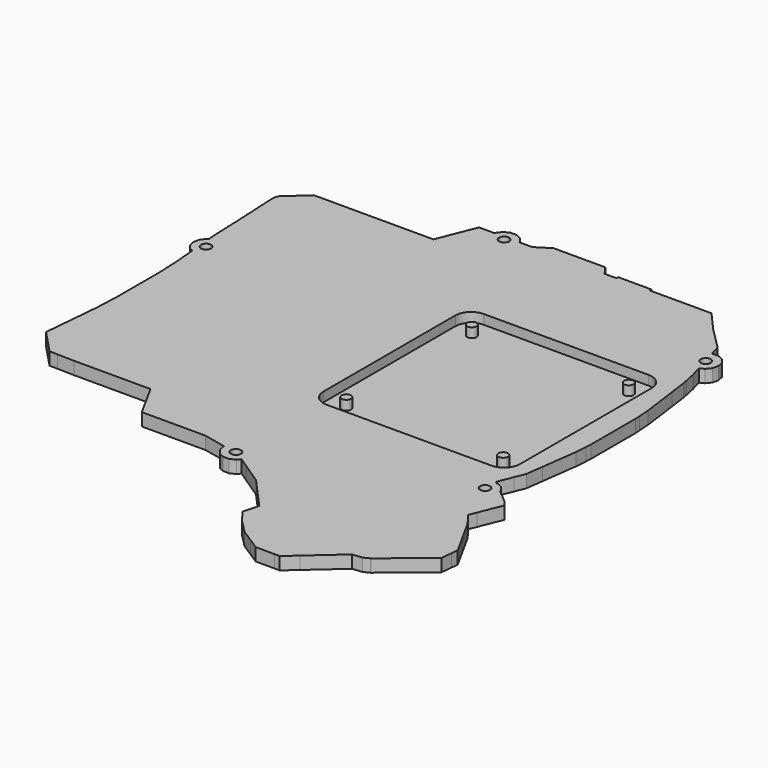
from build123d import *

# Parameters (mm, degrees)
PAD_DEPTH       = 4
SKETCH001_W     = 62
SKETCH001_H     = 62
POCKET_DEPTH    = 3
SKETCH002_R     = 1.5
PAD001_DEPTH    = 3
SKETCH003_R     = 1.5875
POCKET001_DEPTH = 4.001
FILLET_R        = 5


with BuildPart() as part:
    # Sketch → Pad (new body)
    with BuildSketch(Plane.XY):
        with BuildLine():
            add(Edge.make_bspline(
                [(7.110538, 123.355855), (7.531138, 121.513255)],
                knots=[0, 0, 1.889994, 1.889994], degree=1))
            add(Edge.make_bspline(
                [(7.531138, 121.513255), (7.531938, 121.509855)],
                knots=[0, 0, 0.003493, 0.003493], degree=1))
            add(Edge.make_bspline(
                [(7.531938, 121.509855), (7.534138, 121.507055)],
                knots=[0, 0, 0.003561, 0.003561], degree=1))
            add(Edge.make_bspline(
                [(7.534138, 121.507055), (8.712538, 120.029355)],
                knots=[0, 0, 1.890033, 1.890033], degree=1))
            add(Edge.make_bspline(
                [(8.712538, 120.029355), (9.780338, 119.515155)],
                knots=[0, 0, 1.185158, 1.185158], degree=1))
            add(Edge.make_bspline(
                [(9.780338, 119.515155), (10.374038, 112.923715)],
                knots=[0, 0, 6.618124, 6.618124], degree=1))
            add(Edge.make_bspline(
                [(10.374038, 112.923715), (10.634538, 107.230525)],
                knots=[0, 0, 5.699147, 5.699147], degree=1))
            add(Edge.make_bspline(
                [(10.634538, 107.230525), (10.713338, 105.508755)],
                knots=[0, 0, 1.723572, 1.723572], degree=1))
            add(Edge.make_bspline(
                [(10.713338, 105.508755), (10.713338, 88.308755)],
                knots=[0, 0, 17.2, 17.2], degree=1))
            add(Edge.make_bspline(
                [(10.713338, 88.308755), (10.634538, 86.586955)],
                knots=[0, 0, 1.723602, 1.723602], degree=1))
            add(Edge.make_bspline(
                [(10.634538, 86.586955), (10.374038, 80.893755)],
                knots=[0, 0, 5.699157, 5.699157], degree=1))
            add(Edge.make_bspline(
                [(10.374038, 80.893755), (8.864238, 64.131755)],
                knots=[0, 0, 16.829859, 16.829859], degree=1))
            add(Edge.make_bspline(
                [(8.864238, 64.131755), (8.851738, 63.596955)],
                knots=[0, 0, 0.534946, 0.534946], degree=1))
            add(Edge.make_bspline(
                [(8.851738, 63.596955), (8.842238, 63.187555)],
                knots=[0, 0, 0.40951, 0.40951], degree=1))
            add(Edge.make_bspline(
                [(8.842238, 63.187555), (8.840038, 63.093355)],
                knots=[0, 0, 0.094226, 0.094226], degree=1))
            add(Edge.make_bspline(
                [(8.840038, 63.093355), (8.847938, 63.068955)],
                knots=[0, 0, 0.025647, 0.025647], degree=1))
            add(Edge.make_bspline(
                [(8.847938, 63.068955), (8.864238, 63.018755)],
                knots=[0, 0, 0.05278, 0.05278], degree=1))
            add(Edge.make_bspline(
                [(8.864238, 63.018755), (10.908138, 60.863055)],
                knots=[0, 0, 2.970618, 2.970618], degree=1))
            add(Edge.make_bspline(
                [(10.908138, 60.863055), (15.891038, 55.607755)],
                knots=[0, 0, 7.242063, 7.242063], degree=1))
            add(Edge.make_bspline(
                [(15.891038, 55.607755), (15.911038, 55.607255)],
                knots=[0, 0, 0.020006, 0.020006], degree=1))
            add(Edge.make_bspline(
                [(15.911038, 55.607255), (15.991338, 55.605355)],
                knots=[0, 0, 0.080322, 0.080322], degree=1))
            add(Edge.make_bspline(
                [(15.991338, 55.605355), (18.367238, 55.549955)],
                knots=[0, 0, 2.376546, 2.376546], degree=1))
            add(Edge.make_bspline(
                [(18.367238, 55.549955), (23.674038, 55.425955)],
                knots=[0, 0, 5.308249, 5.308249], degree=1))
            add(Edge.make_bspline(
                [(23.674038, 55.425955), (33.191938, 55.425955)],
                knots=[0, 0, 9.5179, 9.5179], degree=1))
            add(Edge.make_bspline(
                [(33.191938, 55.425955), (33.548038, 55.425955)],
                knots=[0, 0, 0.3561, 0.3561], degree=1))
            add(Edge.make_bspline(
                [(33.548038, 55.425955), (33.643538, 55.425955)],
                knots=[0, 0, 0.0955, 0.0955], degree=1))
            add(Edge.make_bspline(
                [(33.643538, 55.425955), (37.838738, 55.425955)],
                knots=[0, 0, 4.1952, 4.1952], degree=1))
            add(Edge.make_bspline(
                [(37.838738, 55.425955), (39.979838, 55.425955)],
                knots=[0, 0, 2.1411, 2.1411], degree=1))
            add(Edge.make_bspline(
                [(39.979838, 55.425955), (40.088438, 55.425955)],
                knots=[0, 0, 0.1086, 0.1086], degree=1))
            add(Edge.make_bspline(
                [(40.088438, 55.425955), (47.880938, 55.425955)],
                knots=[0, 0, 7.7925, 7.7925], degree=1))
            add(Edge.make_bspline(
                [(47.880938, 55.425955), (50.274438, 51.072955)],
                knots=[0, 0, 4.96764, 4.96764], degree=1))
            add(Edge.make_bspline(
                [(50.274438, 51.072955), (53.904838, 44.470155)],
                knots=[0, 0, 7.535036, 7.535036], degree=1))
            add(Edge.make_bspline(
                [(53.904838, 44.470155), (65.142358, 44.470155)],
                knots=[0, 0, 11.23752, 11.23752], degree=1))
            add(Edge.make_bspline(
                [(65.142358, 44.470155), (65.195378, 44.470155)],
                knots=[0, 0, 0.05302, 0.05302], degree=1))
            add(Edge.make_bspline(
                [(65.195378, 44.470155), (73.996138, 44.470155)],
                knots=[0, 0, 8.80076, 8.80076], degree=1))
            add(Edge.make_bspline(
                [(73.996138, 44.470155), (81.180738, 42.906055)],
                knots=[0, 0, 7.352883, 7.352883], degree=1))
            add(Edge.make_bspline(
                [(81.180738, 42.906055), (81.101938, 42.560655)],
                knots=[0, 0, 0.354275, 0.354275], degree=1))
            add(Edge.make_bspline(
                [(81.101938, 42.560655), (81.522538, 40.717955)],
                knots=[0, 0, 1.890092, 1.890092], degree=1))
            add(Edge.make_bspline(
                [(81.522538, 40.717955), (81.523338, 40.714555)],
                knots=[0, 0, 0.003493, 0.003493], degree=1))
            add(Edge.make_bspline(
                [(81.523338, 40.714555), (81.525438, 40.711755)],
                knots=[0, 0, 0.0035, 0.0035], degree=1))
            add(Edge.make_bspline(
                [(81.525438, 40.711755), (82.703938, 39.234055)],
                knots=[0, 0, 1.890095, 1.890095], degree=1))
            add(Edge.make_bspline(
                [(82.703938, 39.234055), (84.406838, 38.413955)],
                knots=[0, 0, 1.890088, 1.890088], degree=1))
            add(Edge.make_bspline(
                [(84.406838, 38.413955), (84.409938, 38.412455)],
                knots=[0, 0, 0.003444, 0.003444], degree=1))
            add(Edge.make_bspline(
                [(84.409938, 38.412455), (86.303538, 38.412455)],
                knots=[0, 0, 1.8936, 1.8936], degree=1))
            add(Edge.make_bspline(
                [(86.303538, 38.412455), (86.306638, 38.413955)],
                knots=[0, 0, 0.003444, 0.003444], degree=1))
            add(Edge.make_bspline(
                [(86.306638, 38.413955), (88.009538, 39.234055)],
                knots=[0, 0, 1.890088, 1.890088], degree=1))
            add(Edge.make_bspline(
                [(88.009538, 39.234055), (88.797338, 40.221955)],
                knots=[0, 0, 1.263557, 1.263557], degree=1))
            add(Edge.make_bspline(
                [(88.797338, 40.221955), (91.676138, 38.301355)],
                knots=[0, 0, 3.460664, 3.460664], degree=1))
            add(Edge.make_bspline(
                [(91.676138, 38.301355), (91.676438, 38.301155)],
                knots=[0, 0, 0.000361, 0.000361], degree=1))
            add(Edge.make_bspline(
                [(91.676438, 38.301155), (98.560638, 33.708255)],
                knots=[0, 0, 8.275684, 8.275684], degree=1))
            add(Edge.make_bspline(
                [(98.560638, 33.708255), (103.600938, 28.110455)],
                knots=[0, 0, 7.532595, 7.532595], degree=1))
            add(Edge.make_bspline(
                [(103.600938, 28.110455), (103.601238, 28.110255)],
                knots=[0, 0, 0.000361, 0.000361], degree=1))
            add(Edge.make_bspline(
                [(103.601238, 28.110255), (107.760738, 23.490555)],
                knots=[0, 0, 6.216355, 6.216355], degree=1))
            add(Edge.make_bspline(
                [(107.760738, 23.490555), (107.450938, 22.284955)],
                knots=[0, 0, 1.244768, 1.244768], degree=1))
            add(Edge.make_bspline(
                [(107.450938, 22.284955), (106.493138, 18.558055)],
                knots=[0, 0, 3.848008, 3.848008], degree=1))
            add(Edge.make_bspline(
                [(106.493138, 18.558055), (108.480938, 15.822055)],
                knots=[0, 0, 3.38187, 3.38187], degree=1))
            add(Edge.make_bspline(
                [(108.480938, 15.822055), (108.481138, 15.821855)],
                knots=[0, 0, 0.000283, 0.000283], degree=1))
            add(Edge.make_bspline(
                [(108.481138, 15.821855), (109.226138, 14.796355)],
                knots=[0, 0, 1.267547, 1.267547], degree=1))
            add(Edge.make_bspline(
                [(109.226138, 14.796355), (111.227638, 12.786255)],
                knots=[0, 0, 2.836636, 2.836636], degree=1))
            add(Edge.make_bspline(
                [(111.227638, 12.786255), (113.637538, 10.365855)],
                knots=[0, 0, 3.415546, 3.415546], degree=1))
            add(Edge.make_bspline(
                [(113.637538, 10.365855), (117.364938, 7.976755)],
                knots=[0, 0, 4.427337, 4.427337], degree=1))
            add(Edge.make_bspline(
                [(117.364938, 7.976755), (120.793238, 5.778755)],
                knots=[0, 0, 4.0724, 4.0724], degree=1))
            add(Edge.make_bspline(
                [(120.793238, 5.778755), (120.831738, 5.754755)],
                knots=[0, 0, 0.045368, 0.045368], degree=1))
            add(Edge.make_bspline(
                [(120.831738, 5.754755), (126.720038, 5.726755)],
                knots=[0, 0, 5.888367, 5.888367], degree=1))
            add(Edge.make_bspline(
                [(126.720038, 5.726755), (128.418238, 5.718755)],
                knots=[0, 0, 1.698219, 1.698219], degree=1))
            add(Edge.make_bspline(
                [(128.418238, 5.718755), (128.495338, 5.786755)],
                knots=[0, 0, 0.102803, 0.102803], degree=1))
            add(Edge.make_bspline(
                [(128.495338, 5.786755), (132.141338, 9.010355)],
                knots=[0, 0, 4.866715, 4.866715], degree=1))
            add(Edge.make_bspline(
                [(132.141338, 9.010355), (141.762838, 17.517555)],
                knots=[0, 0, 12.843119, 12.843119], degree=1))
            add(Edge.make_bspline(
                [(141.762838, 17.517555), (144.863938, 17.858155)],
                knots=[0, 0, 3.119748, 3.119748], degree=1))
            add(Edge.make_bspline(
                [(144.863938, 17.858155), (146.694138, 18.751855)],
                knots=[0, 0, 2.036745, 2.036745], degree=1))
            add(Edge.make_bspline(
                [(146.694138, 18.751855), (146.720938, 18.773855)],
                knots=[0, 0, 0.034673, 0.034673], degree=1))
            add(Edge.make_bspline(
                [(146.720938, 18.773855), (160.108538, 29.768355)],
                knots=[0, 0, 17.323593, 17.323593], degree=1))
            add(Edge.make_bspline(
                [(160.108538, 29.768355), (160.164538, 29.814255)],
                knots=[0, 0, 0.072407, 0.072407], degree=1))
            add(Edge.make_bspline(
                [(160.164538, 29.814255), (160.533438, 33.392555)],
                knots=[0, 0, 3.597265, 3.597265], degree=1))
            add(Edge.make_bspline(
                [(160.533438, 33.392555), (160.752238, 35.514855)],
                knots=[0, 0, 2.133549, 2.133549], degree=1))
            add(Edge.make_bspline(
                [(160.752238, 35.514855), (160.692538, 35.623155)],
                knots=[0, 0, 0.123665, 0.123665], degree=1))
            add(Edge.make_bspline(
                [(160.692538, 35.623155), (157.517238, 41.382555)],
                knots=[0, 0, 6.576718, 6.576718], degree=1))
            add(Edge.make_bspline(
                [(157.517238, 41.382555), (153.743038, 48.228155)],
                knots=[0, 0, 7.817085, 7.817085], degree=1))
            add(Edge.make_bspline(
                [(153.743038, 48.228155), (153.038038, 49.130555)],
                knots=[0, 0, 1.145142, 1.145142], degree=1))
            add(Edge.make_bspline(
                [(153.038038, 49.130555), (150.939738, 51.816255)],
                knots=[0, 0, 3.408203, 3.408203], degree=1))
            add(Edge.make_bspline(
                [(150.939738, 51.816255), (151.876838, 54.152755)],
                knots=[0, 0, 2.517417, 2.517417], degree=1))
            add(Edge.make_bspline(
                [(151.876838, 54.152755), (154.819138, 61.488255)],
                knots=[0, 0, 7.903587, 7.903587], degree=1))
            add(Edge.make_bspline(
                [(154.819138, 61.488255), (154.299338, 62.122055)],
                knots=[0, 0, 0.819692, 0.819692], degree=1))
            add(Edge.make_bspline(
                [(154.299338, 62.122055), (154.299338, 62.122155)],
                knots=[0, 0, 0.0001, 0.0001], degree=1))
            add(Edge.make_bspline(
                [(154.299338, 62.122155), (153.563238, 63.019755)],
                knots=[0, 0, 1.160831, 1.160831], degree=1))
            add(Edge.make_bspline(
                [(153.563238, 63.019755), (149.287638, 66.607355)],
                knots=[0, 0, 5.581364, 5.581364], degree=1))
            add(Edge.make_bspline(
                [(149.287638, 66.607355), (149.169038, 66.706855)],
                knots=[0, 0, 0.15481, 0.15481], degree=1))
            add(Edge.make_bspline(
                [(149.169038, 66.706855), (149.065738, 67.159455)],
                knots=[0, 0, 0.464239, 0.464239], degree=1))
            add(Edge.make_bspline(
                [(149.065738, 67.159455), (149.065038, 67.162855)],
                knots=[0, 0, 0.003471, 0.003471], degree=1))
            add(Edge.make_bspline(
                [(149.065038, 67.162855), (149.062838, 67.165555)],
                knots=[0, 0, 0.003483, 0.003483], degree=1))
            add(Edge.make_bspline(
                [(149.062838, 67.165555), (147.884338, 68.643355)],
                knots=[0, 0, 1.890173, 1.890173], degree=1))
            add(Edge.make_bspline(
                [(147.884338, 68.643355), (146.181438, 69.463355)],
                knots=[0, 0, 1.890045, 1.890045], degree=1))
            add(Edge.make_bspline(
                [(146.181438, 69.463355), (146.178338, 69.464955)],
                knots=[0, 0, 0.003489, 0.003489], degree=1))
            add(Edge.make_bspline(
                [(146.178338, 69.464955), (145.882138, 69.464955)],
                knots=[0, 0, 0.2962, 0.2962], degree=1))
            add(Edge.make_bspline(
                [(145.882138, 69.464955), (145.309738, 69.945255)],
                knots=[0, 0, 0.747215, 0.747215], degree=1))
            add(Edge.make_bspline(
                [(145.309738, 69.945255), (147.201538, 74.641255)],
                knots=[0, 0, 5.062739, 5.062739], degree=1))
            add(Edge.make_bspline(
                [(147.201538, 74.641255), (148.510538, 77.890355)],
                knots=[0, 0, 3.502875, 3.502875], degree=1))
            add(Edge.make_bspline(
                [(148.510538, 77.890355), (149.239338, 83.329855)],
                knots=[0, 0, 5.488106, 5.488106], degree=1))
            add(Edge.make_bspline(
                [(149.239338, 83.329855), (150.762238, 94.697455)],
                knots=[0, 0, 11.469157, 11.469157], degree=1))
            add(Edge.make_bspline(
                [(150.762238, 94.697455), (151.005438, 98.391255)],
                knots=[0, 0, 3.701797, 3.701797], degree=1))
            add(Edge.make_bspline(
                [(151.005438, 98.391255), (151.121738, 100.158755)],
                knots=[0, 0, 1.771322, 1.771322], degree=1))
            add(Edge.make_bspline(
                [(151.121738, 100.158755), (151.121738, 117.658755)],
                knots=[0, 0, 17.5, 17.5], degree=1))
            add(Edge.make_bspline(
                [(151.121738, 117.658755), (151.005438, 119.426255)],
                knots=[0, 0, 1.771322, 1.771322], degree=1))
            add(Edge.make_bspline(
                [(151.005438, 119.426255), (150.762238, 123.120055)],
                knots=[0, 0, 3.701797, 3.701797], degree=1))
            add(Edge.make_bspline(
                [(150.762238, 123.120055), (149.239338, 134.487655)],
                knots=[0, 0, 11.469157, 11.469157], degree=1))
            add(Edge.make_bspline(
                [(149.239338, 134.487655), (148.510538, 139.927155)],
                knots=[0, 0, 5.488106, 5.488106], degree=1))
            add(Edge.make_bspline(
                [(148.510538, 139.927155), (148.222738, 141.316955)],
                knots=[0, 0, 1.419286, 1.419286], degree=1))
            add(Edge.make_bspline(
                [(148.222738, 141.316955), (147.456538, 145.016255)],
                knots=[0, 0, 3.777815, 3.777815], degree=1))
            add(Edge.make_bspline(
                [(147.456538, 145.016255), (146.454938, 148.485855)],
                knots=[0, 0, 3.611278, 3.611278], degree=1))
            add(Edge.make_bspline(
                [(146.454938, 148.485855), (147.884338, 149.174155)],
                knots=[0, 0, 1.586487, 1.586487], degree=1))
            add(Edge.make_bspline(
                [(147.884338, 149.174155), (149.062838, 150.651955)],
                knots=[0, 0, 1.890173, 1.890173], degree=1))
            add(Edge.make_bspline(
                [(149.062838, 150.651955), (149.065038, 150.654655)],
                knots=[0, 0, 0.003483, 0.003483], degree=1))
            add(Edge.make_bspline(
                [(149.065038, 150.654655), (149.065738, 150.658055)],
                knots=[0, 0, 0.003471, 0.003471], degree=1))
            add(Edge.make_bspline(
                [(149.065738, 150.658055), (149.486338, 152.500755)],
                knots=[0, 0, 1.890092, 1.890092], degree=1))
            add(Edge.make_bspline(
                [(149.486338, 152.500755), (149.065738, 154.343455)],
                knots=[0, 0, 1.890092, 1.890092], degree=1))
            add(Edge.make_bspline(
                [(149.065738, 154.343455), (149.065038, 154.346855)],
                knots=[0, 0, 0.003471, 0.003471], degree=1))
            add(Edge.make_bspline(
                [(149.065038, 154.346855), (149.062838, 154.349555)],
                knots=[0, 0, 0.003483, 0.003483], degree=1))
            add(Edge.make_bspline(
                [(149.062838, 154.349555), (147.884338, 155.827255)],
                knots=[0, 0, 1.890095, 1.890095], degree=1))
            add(Edge.make_bspline(
                [(147.884338, 155.827255), (146.181438, 156.647355)],
                knots=[0, 0, 1.890088, 1.890088], degree=1))
            add(Edge.make_bspline(
                [(146.181438, 156.647355), (146.178338, 156.648855)],
                knots=[0, 0, 0.003444, 0.003444], degree=1))
            add(Edge.make_bspline(
                [(146.178338, 156.648855), (144.284738, 156.648855)],
                knots=[0, 0, 1.8936, 1.8936], degree=1))
            add(Edge.make_bspline(
                [(144.284738, 156.648855), (144.281638, 156.647355)],
                knots=[0, 0, 0.003444, 0.003444], degree=1))
            add(Edge.make_bspline(
                [(144.281638, 156.647355), (144.121238, 156.570055)],
                knots=[0, 0, 0.178055, 0.178055], degree=1))
            add(Edge.make_bspline(
                [(144.121238, 156.570055), (143.106538, 160.085155)],
                knots=[0, 0, 3.658626, 3.658626], degree=1))
            add(Edge.make_bspline(
                [(143.106538, 160.085155), (136.106538, 167.085155)],
                knots=[0, 0, 9.899495, 9.899495], degree=1))
            add(Edge.make_bspline(
                [(136.106538, 167.085155), (131.835938, 171.928755)],
                knots=[0, 0, 6.457436, 6.457436], degree=1))
            add(Edge.make_bspline(
                [(131.835938, 171.928755), (130.585238, 173.347355)],
                knots=[0, 0, 1.89121, 1.89121], degree=1))
            add(Edge.make_bspline(
                [(130.585238, 173.347355), (130.317338, 173.347355)],
                knots=[0, 0, 0.2679, 0.2679], degree=1))
            add(Edge.make_bspline(
                [(130.317338, 173.347355), (130.317338, 173.353055)],
                knots=[0, 0, 0.0057, 0.0057], degree=1))
            add(Edge.make_bspline(
                [(130.317338, 173.353055), (116.217338, 173.353055)],
                knots=[0, 0, 14.1, 14.1], degree=1))
            add(Edge.make_bspline(
                [(116.217338, 173.353055), (116.217338, 173.347355)],
                knots=[0, 0, 0.0057, 0.0057], degree=1))
            add(Edge.make_bspline(
                [(116.217338, 173.347355), (115.583838, 173.347355)],
                knots=[0, 0, 0.6335, 0.6335], degree=1))
            add(Edge.make_bspline(
                [(115.583838, 173.347355), (114.897638, 173.347355)],
                knots=[0, 0, 0.6862, 0.6862], degree=1))
            add(Edge.make_bspline(
                [(114.897638, 173.347355), (114.876138, 173.347355)],
                knots=[0, 0, 0.0215, 0.0215], degree=1))
            add(Edge.make_bspline(
                [(114.876138, 173.347355), (112.510638, 173.347355)],
                knots=[0, 0, 2.3655, 2.3655], degree=1))
            add(Edge.make_bspline(
                [(112.510638, 173.347355), (111.085738, 173.347355)],
                knots=[0, 0, 1.4249, 1.4249], degree=1))
            add(Edge.make_bspline(
                [(111.085738, 173.347355), (111.085738, 174.033055)],
                knots=[0, 0, 0.6857, 0.6857], degree=1))
            add(Edge.make_bspline(
                [(111.085738, 174.033055), (100.585738, 174.033055)],
                knots=[0, 0, 10.5, 10.5], degree=1))
            add(Edge.make_bspline(
                [(100.585738, 174.033055), (100.585738, 173.347355)],
                knots=[0, 0, 0.6857, 0.6857], degree=1))
            add(Edge.make_bspline(
                [(100.585738, 173.347355), (96.852338, 173.347355)],
                knots=[0, 0, 3.7334, 3.7334], degree=1))
            add(Edge.make_bspline(
                [(96.852338, 173.347355), (95.378938, 175.389255)],
                knots=[0, 0, 2.517988, 2.517988], degree=1))
            add(Edge.make_bspline(
                [(95.378938, 175.389255), (94.817438, 176.167355)],
                knots=[0, 0, 0.959543, 0.959543], degree=1))
            add(Edge.make_bspline(
                [(94.817438, 176.167355), (94.786638, 176.167355)],
                knots=[0, 0, 0.0308, 0.0308], degree=1))
            add(Edge.make_bspline(
                [(94.786638, 176.167355), (88.225638, 176.167355)],
                knots=[0, 0, 6.561, 6.561], degree=1))
            add(Edge.make_bspline(
                [(88.225638, 176.167355), (88.178338, 176.167355)],
                knots=[0, 0, 0.0473, 0.0473], degree=1))
            add(Edge.make_bspline(
                [(88.178338, 176.167355), (78.466838, 176.167355)],
                knots=[0, 0, 9.7115, 9.7115], degree=1))
            add(Edge.make_bspline(
                [(78.466838, 176.167355), (76.866318, 175.157755)],
                knots=[0, 0, 1.892342, 1.892342], degree=1))
            add(Edge.make_bspline(
                [(76.866318, 175.157755), (73.996138, 173.347355)],
                knots=[0, 0, 3.393447, 3.393447], degree=1))
            add(Edge.make_bspline(
                [(73.996138, 173.347355), (69.976598, 173.347355)],
                knots=[0, 0, 4.01954, 4.01954], degree=1))
            add(Edge.make_bspline(
                [(69.976598, 173.347355), (69.894288, 173.707955)],
                knots=[0, 0, 0.369875, 0.369875], degree=1))
            add(Edge.make_bspline(
                [(69.894288, 173.707955), (69.893508, 173.711355)],
                knots=[0, 0, 0.003488, 0.003488], degree=1))
            add(Edge.make_bspline(
                [(69.893508, 173.711355), (69.891338, 173.714055)],
                knots=[0, 0, 0.003464, 0.003464], degree=1))
            add(Edge.make_bspline(
                [(69.891338, 173.714055), (68.712888, 175.191855)],
                knots=[0, 0, 1.890142, 1.890142], degree=1))
            add(Edge.make_bspline(
                [(68.712888, 175.191855), (67.009989, 176.011855)],
                knots=[0, 0, 1.890044, 1.890044], degree=1))
            add(Edge.make_bspline(
                [(67.009989, 176.011855), (67.006849, 176.013355)],
                knots=[0, 0, 0.00348, 0.00348], degree=1))
            add(Edge.make_bspline(
                [(67.006849, 176.013355), (65.113288, 176.013355)],
                knots=[0, 0, 1.893561, 1.893561], degree=1))
            add(Edge.make_bspline(
                [(65.113288, 176.013355), (65.110148, 176.011855)],
                knots=[0, 0, 0.00348, 0.00348], degree=1))
            add(Edge.make_bspline(
                [(65.110148, 176.011855), (63.407238, 175.191855)],
                knots=[0, 0, 1.890054, 1.890054], degree=1))
            add(Edge.make_bspline(
                [(63.407238, 175.191855), (62.228798, 173.714055)],
                knots=[0, 0, 1.890136, 1.890136], degree=1))
            add(Edge.make_bspline(
                [(62.228798, 173.714055), (62.226628, 173.711355)],
                knots=[0, 0, 0.003464, 0.003464], degree=1))
            add(Edge.make_bspline(
                [(62.226628, 173.711355), (62.225848, 173.707955)],
                knots=[0, 0, 0.003488, 0.003488], degree=1))
            add(Edge.make_bspline(
                [(62.225848, 173.707955), (62.143528, 173.347355)],
                knots=[0, 0, 0.369877, 0.369877], degree=1))
            add(Edge.make_bspline(
                [(62.143528, 173.347355), (57.285638, 173.347355)],
                knots=[0, 0, 4.85789, 4.85789], degree=1))
            add(Edge.make_bspline(
                [(57.285638, 173.347355), (56.988338, 172.684055)],
                knots=[0, 0, 0.72688, 0.72688], degree=1))
            add(Edge.make_bspline(
                [(56.988338, 172.684055), (56.501138, 171.597355)],
                knots=[0, 0, 1.190916, 1.190916], degree=1))
            add(Edge.make_bspline(
                [(56.501138, 171.597355), (53.980438, 165.232055)],
                knots=[0, 0, 6.846238, 6.846238], degree=1))
            add(Edge.make_bspline(
                [(53.980438, 165.232055), (52.442038, 161.347355)],
                knots=[0, 0, 4.178226, 4.178226], degree=1))
            add(Edge.make_bspline(
                [(52.442038, 161.347355), (45.728938, 161.347355)],
                knots=[0, 0, 6.7131, 6.7131], degree=1))
            add(Edge.make_bspline(
                [(45.728938, 161.347355), (35.464238, 161.347355)],
                knots=[0, 0, 10.2647, 10.2647], degree=1))
            add(Edge.make_bspline(
                [(35.464238, 161.347355), (34.113738, 161.347355)],
                knots=[0, 0, 1.3505, 1.3505], degree=1))
            add(Edge.make_bspline(
                [(34.113738, 161.347355), (34.072938, 161.347355)],
                knots=[0, 0, 0.0408, 0.0408], degree=1))
            add(Edge.make_bspline(
                [(34.072938, 161.347355), (32.028238, 161.347355)],
                knots=[0, 0, 2.0447, 2.0447], degree=1))
            add(Edge.make_bspline(
                [(32.028238, 161.347355), (24.597938, 161.347355)],
                knots=[0, 0, 7.4303, 7.4303], degree=1))
            add(Edge.make_bspline(
                [(24.597938, 161.347355), (14.734738, 161.347355)],
                knots=[0, 0, 9.8632, 9.8632], degree=1))
            add(Edge.make_bspline(
                [(14.734738, 161.347355), (10.940338, 157.897855)],
                knots=[0, 0, 5.128013, 5.128013], degree=1))
            add(Edge.make_bspline(
                [(10.940338, 157.897855), (8.066438, 155.285155)],
                knots=[0, 0, 3.884006, 3.884006], degree=1))
            add(Edge.make_bspline(
                [(8.066438, 155.285155), (7.940538, 154.450855)],
                knots=[0, 0, 0.843746, 0.843746], degree=1))
            add(Edge.make_bspline(
                [(7.940538, 154.450855), (7.802238, 153.535155)],
                knots=[0, 0, 0.926085, 0.926085], degree=1))
            add(Edge.make_bspline(
                [(7.802238, 153.535155), (7.804638, 153.487655)],
                knots=[0, 0, 0.047561, 0.047561], degree=1))
            add(Edge.make_bspline(
                [(7.804638, 153.487655), (7.806638, 153.448555)],
                knots=[0, 0, 0.039151, 0.039151], degree=1))
            add(Edge.make_bspline(
                [(7.806638, 153.448555), (8.366338, 142.324555)],
                knots=[0, 0, 11.138072, 11.138072], degree=1))
            add(Edge.make_bspline(
                [(8.366338, 142.324555), (8.556138, 138.552955)],
                knots=[0, 0, 3.776373, 3.776373], degree=1))
            add(Edge.make_bspline(
                [(8.556138, 138.552955), (8.556138, 138.552855)],
                knots=[0, 0, 0.0001, 0.0001], degree=1))
            add(Edge.make_bspline(
                [(8.556138, 138.552855), (8.835238, 130.821755)],
                knots=[0, 0, 7.736136, 7.736136], degree=1))
            add(Edge.make_bspline(
                [(8.835238, 130.821755), (8.842238, 130.627555)],
                knots=[0, 0, 0.194326, 0.194326], degree=1))
            add(Edge.make_bspline(
                [(8.842238, 130.627555), (8.851738, 130.220555)],
                knots=[0, 0, 0.407111, 0.407111], degree=1))
            add(Edge.make_bspline(
                [(8.851738, 130.220555), (8.864238, 129.685755)],
                knots=[0, 0, 0.534946, 0.534946], degree=1))
            add(Edge.make_bspline(
                [(8.864238, 129.685755), (9.117238, 126.877355)],
                knots=[0, 0, 2.819773, 2.819773], degree=1))
            add(Edge.make_bspline(
                [(9.117238, 126.877355), (8.712538, 126.682455)],
                knots=[0, 0, 0.449186, 0.449186], degree=1))
            add(Edge.make_bspline(
                [(8.712538, 126.682455), (7.534138, 125.204755)],
                knots=[0, 0, 1.890033, 1.890033], degree=1))
            add(Edge.make_bspline(
                [(7.534138, 125.204755), (7.531938, 125.201955)],
                knots=[0, 0, 0.003561, 0.003561], degree=1))
            add(Edge.make_bspline(
                [(7.531938, 125.201955), (7.531138, 125.198555)],
                knots=[0, 0, 0.003493, 0.003493], degree=1))
            add(Edge.make_bspline(
                [(7.531138, 125.198555), (7.110538, 123.355855)],
                knots=[0, 0, 1.890092, 1.890092], degree=1))
        make_face()
    extrude(amount=PAD_DEPTH)

    # Sketch001 (on Face195 of Pad) → Pocket (cut)
    with BuildSketch(Plane.XY.offset(4)):
        with Locations((113, 107)):
            Rectangle(SKETCH001_W, SKETCH001_H)
    extrude(amount=-POCKET_DEPTH, mode=Mode.SUBTRACT)

    # Sketch002 (on Face200 of Pocket) → Pad001 (join)
    with BuildSketch(Plane.XY.offset(1)):
        with Locations((88.235, 131.765)):
            Circle(SKETCH002_R)
        with Locations((137.765, 131.765)):
            Circle(SKETCH002_R)
        with Locations((137.765, 82.235)):
            Circle(SKETCH002_R)
        with Locations((88.235, 82.235)):
            Circle(SKETCH002_R)
    extrude(amount=PAD001_DEPTH)

    # Sketch003 → Pocket001 (cut, through all)
    with BuildSketch(Plane.XY):
        with Locations((66.071259, 172.149536)):
            Circle(SKETCH003_R)
        with Locations((145.397964, 152.575211)):
            Circle(SKETCH003_R)
        with Locations((85.315071, 42.353413)):
            Circle(SKETCH003_R)
        with Locations((11.086939, 123.341187)):
            Circle(SKETCH003_R)
        with Locations((145.251533, 65.675183)):
            Circle(SKETCH003_R)
    extrude(amount=POCKET001_DEPTH, mode=Mode.SUBTRACT)

    # Fillet
    fillet_edges = [part.edges().sort_by_distance(p)[0] for p in [
        (144, 138, 2.5),
        (82, 138, 2.5),
        (82, 76, 2.5),
        (144, 76, 2.5),
    ]]
    fillet(fillet_edges, radius=FILLET_R)


with BuildPart() as part_1:
    # Body placement: moved
    add(part.part.moved(Location((-10, -5, -4))))


solid = part_1.part
